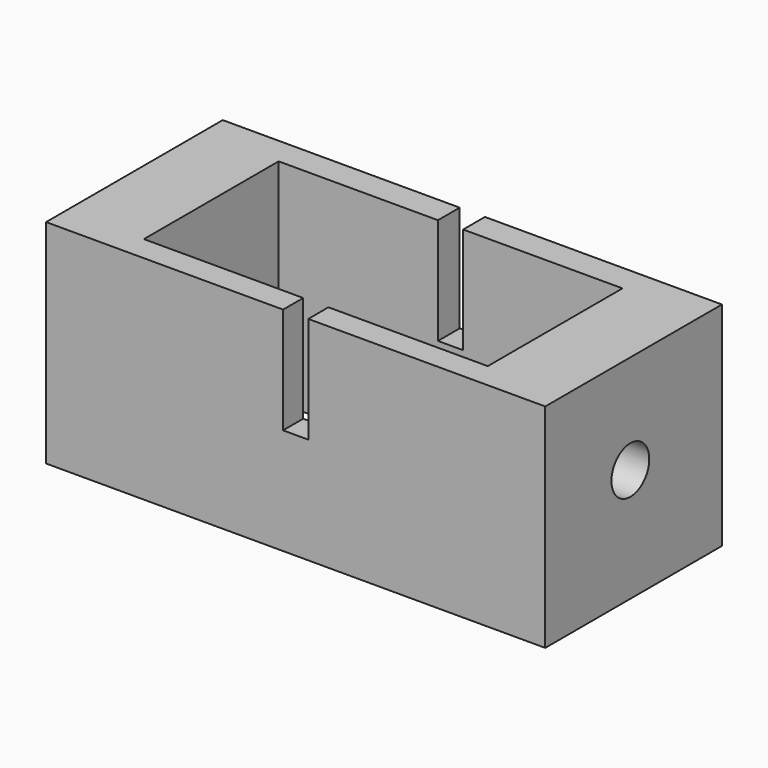
from build123d import *

# Parameters (mm, degrees)
F0_W     = 18.556535
F0_H     = 6.506839
F0_W_2   = 38.07705
F0_H_2   = 40.245993
F0_H_3   = 6.024849
F1_DEPTH = 50.8
F2_R     = 5.6515
F3_DEPTH = 170.688
F4_W     = 6.024849
F4_H     = 25.4
F5_DEPTH = 25.4
F6_W     = 6.506839
F6_H     = 25.4
F7_DEPTH = 25.4


with BuildPart() as f1:
    # F0 (on Top) → F1 (new body)
    with BuildSketch(Plane.XY):
        with Locations((-50.367742, 24.099397)):
            Rectangle(F0_W, F0_H)
        with Locations((-22.05095, 24.099397)):
            Rectangle(F0_W_2, F0_H)
        with Locations((-50.367742, 0.722981)):
            Rectangle(F0_W, F0_H_2)
        with Locations((-50.367742, -22.412439)):
            Rectangle(F0_W, F0_H_3)
        with Locations((-22.05095, -22.412439)):
            Rectangle(F0_W_2, F0_H_3)
    extrude(amount=F1_DEPTH)

    # F2 (on face) → F3 (cut)
    with BuildSketch(Plane(origin=(-59.64601, 0, 0), x_dir=(0, -1, 0), z_dir=(-1, 0, 0))):
        with Locations((0, 27.094796)):
            Circle(F2_R)
    extrude(amount=-F3_DEPTH, mode=Mode.SUBTRACT)

    # F4 (on face) → F5 (join)
    with BuildSketch(Plane.YZ.offset(-3.012425)):
        with Locations((-22.412439, 12.7)):
            Rectangle(F4_W, F4_H)
    extrude(amount=F5_DEPTH)

    # F6 (on face) → F7 (join)
    with BuildSketch(Plane.YZ.offset(-3.012425)):
        with Locations((24.099397, 12.7)):
            Rectangle(F6_W, F6_H)
    extrude(amount=F7_DEPTH)

    # F8: F1 across plane


with BuildPart() as f1_1:
    add(f1.part)
    add(f1.part.mirror(Plane.YZ))


solid = f1_1.part
